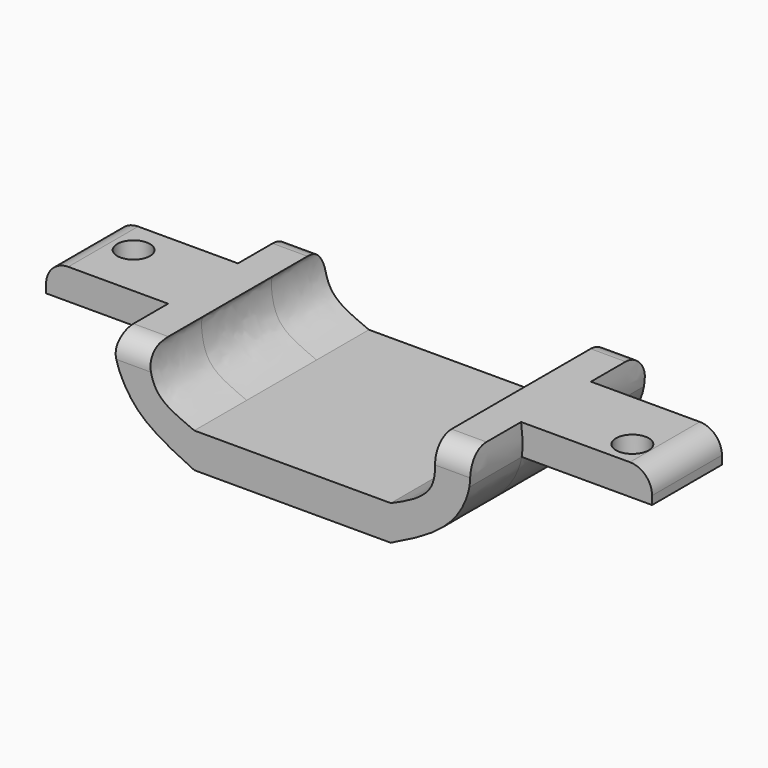
from build123d import *

# Parameters (mm, degrees)
F1_DEPTH = 15
F2_DEPTH = 20
F3_DEPTH = 35
F5_R     = 5.08
F6_R     = 5.08
F7_R     = 5.08
F8_R     = 5.08
F9_R     = 5.08
F10_D    = 7.5


with BuildPart() as f1:
    # F0 (on Front) → F1 (new body)
    with BuildSketch(Plane.XZ):
        with BuildLine():
            add(Edge.make_bspline(
                [(-9.0078394144, -14.6261555421), (-14.006421456, -12.219431046), (-21.4777151753, -8.7987738685), (-25.373944364, -2.1621207849), (-26.2406452466, 0)],
                knots=[0, 0, 0, 0, 0.4219290451, 0.6690640109, 0.6690640109, 0.6690640109, 0.6690640109], degree=3))
            Line((-9.0078394144, -14.6261555421), (35.9921605856, -14.6261555421))
            add(Edge.make_bspline(
                [(35.9921605856, -14.6261555421), (40.7291624411, -12.3453770516), (49.6848707909, -7.8887732182), (53.4571237511, -0.6658874553), (53.9921605856, 2.4431246054)],
                knots=[0, 0, 0, 0, 0.3998491278, 0.7291996551, 0.7291996551, 0.7291996551, 0.7291996551], degree=3))
            add(Edge.make_bspline(
                [(53.9921605856, 2.4431246054), (54.4320814217, 4.9994330631), (54.0818703156, 7.4521168259), (53.8528075786, 9.4431246054)],
                knots=[0.7291996551, 0.7291996551, 0.7291996551, 0.7291996551, 1, 1, 1, 1], degree=3))
            Line((53.8528075786, 9.4431246054), (45.8528075786, 9.4431246054))
            add(Edge.make_bspline(
                [(45.8528075786, 9.4431246054), (45.9380271862, 8.8438899514), (46.0685244466, 6.2436364853), (46.6196397936, -1.8447716738), (39.5795212377, -5.0875957452), (35.9921605856, -6.6261555421)],
                knots=[0, 0, 0, 0, 0.2232213361, 0.5705276676, 1, 1, 1, 1], degree=3))
            Line((35.9921605856, -6.6261555421), (-9.0078394144, -6.6261555421))
            add(Edge.make_bspline(
                [(-19.0078394144, 7), (-19.053505059, 6.7049076197), (-19.5120334536, 6.7583982823), (-19.2237277553, -2.712889397), (-13.0753368013, -4.8592315184), (-9.0078394144, -6.6261555421)],
                knots=[0, 0, 0, 0, 0.1097832683, 0.5084327524, 1, 1, 1, 1], degree=3))
            Line((-19.0078394144, 7), (-27.0078394144, 7))
            add(Edge.make_bspline(
                [(-26.2406452466, 0), (-26.592756236, 0.8783958848), (-27.4419103236, 3.6162903723), (-27.2028414979, 5.3050465987), (-27.0078394144, 7)],
                knots=[0.6690640109, 0.6690640109, 0.6690640109, 0.6690640109, 0.7694665132, 1, 1, 1, 1], degree=3))
        make_face()
    extrude(amount=-F1_DEPTH)

    # F0 (on Front) → F2 (join)
    with BuildSketch(Plane.XZ):
        with BuildLine():
            add(Edge.make_bspline(
                [(-9.0078394144, -14.6261555421), (-14.006421456, -12.219431046), (-21.4777151753, -8.7987738685), (-25.373944364, -2.1621207849), (-26.2406452466, 0)],
                knots=[0, 0, 0, 0, 0.4219290451, 0.6690640109, 0.6690640109, 0.6690640109, 0.6690640109], degree=3))
            Line((-9.0078394144, -14.6261555421), (35.9921605856, -14.6261555421))
            add(Edge.make_bspline(
                [(35.9921605856, -14.6261555421), (40.7291624411, -12.3453770516), (49.6848707909, -7.8887732182), (53.4571237511, -0.6658874553), (53.9921605856, 2.4431246054)],
                knots=[0, 0, 0, 0, 0.3998491278, 0.7291996551, 0.7291996551, 0.7291996551, 0.7291996551], degree=3))
            add(Edge.make_bspline(
                [(53.9921605856, 2.4431246054), (54.4320814217, 4.9994330631), (54.0818703156, 7.4521168259), (53.8528075786, 9.4431246054)],
                knots=[0.7291996551, 0.7291996551, 0.7291996551, 0.7291996551, 1, 1, 1, 1], degree=3))
            Line((53.8528075786, 9.4431246054), (45.8528075786, 9.4431246054))
            add(Edge.make_bspline(
                [(45.8528075786, 9.4431246054), (45.9380271862, 8.8438899514), (46.0685244466, 6.2436364853), (46.6196397936, -1.8447716738), (39.5795212377, -5.0875957452), (35.9921605856, -6.6261555421)],
                knots=[0, 0, 0, 0, 0.2232213361, 0.5705276676, 1, 1, 1, 1], degree=3))
            Line((35.9921605856, -6.6261555421), (-9.0078394144, -6.6261555421))
            add(Edge.make_bspline(
                [(-19.0078394144, 7), (-19.053505059, 6.7049076197), (-19.5120334536, 6.7583982823), (-19.2237277553, -2.712889397), (-13.0753368013, -4.8592315184), (-9.0078394144, -6.6261555421)],
                knots=[0, 0, 0, 0, 0.1097832683, 0.5084327524, 1, 1, 1, 1], degree=3))
            Line((-19.0078394144, 7), (-27.0078394144, 7))
            add(Edge.make_bspline(
                [(-26.2406452466, 0), (-26.592756236, 0.8783958848), (-27.4419103236, 3.6162903723), (-27.2028414979, 5.3050465987), (-27.0078394144, 7)],
                knots=[0.6690640109, 0.6690640109, 0.6690640109, 0.6690640109, 0.7694665132, 1, 1, 1, 1], degree=3))
        make_face()
        with BuildLine():
            Line((-54.9591742456, 0), (-26.2406452466, 0))
            add(Edge.make_bspline(
                [(-26.2406452466, 0), (-26.592756236, 0.8783958848), (-27.4419103236, 3.6162903723), (-27.2028414979, 5.3050465987), (-27.0078394144, 7)],
                knots=[0.6690640109, 0.6690640109, 0.6690640109, 0.6690640109, 0.7694665132, 1, 1, 1, 1], degree=3))
            Line((-27.0078394144, 7), (-54.9591742456, 7))
            Line((-54.9591742456, 7), (-54.9591742456, 0))
        make_face()
        with BuildLine():
            add(Edge.make_bspline(
                [(53.9921605856, 2.4431246054), (54.4320814217, 4.9994330631), (54.0818703156, 7.4521168259), (53.8528075786, 9.4431246054)],
                knots=[0.7291996551, 0.7291996551, 0.7291996551, 0.7291996551, 1, 1, 1, 1], degree=3))
            Line((53.9921605856, 2.4431246054), (83.8528075786, 2.4431246054))
            Line((83.8528075786, 2.4431246054), (83.8528075786, 9.4431246054))
            Line((83.8528075786, 9.4431246054), (53.8528075786, 9.4431246054))
        make_face()
    extrude(amount=F2_DEPTH)

    # F0 (on Front) → F3 (join)
    with BuildSketch(Plane.XZ):
        with BuildLine():
            add(Edge.make_bspline(
                [(-9.0078394144, -14.6261555421), (-14.006421456, -12.219431046), (-21.4777151753, -8.7987738685), (-25.373944364, -2.1621207849), (-26.2406452466, 0)],
                knots=[0, 0, 0, 0, 0.4219290451, 0.6690640109, 0.6690640109, 0.6690640109, 0.6690640109], degree=3))
            Line((-9.0078394144, -14.6261555421), (35.9921605856, -14.6261555421))
            add(Edge.make_bspline(
                [(35.9921605856, -14.6261555421), (40.7291624411, -12.3453770516), (49.6848707909, -7.8887732182), (53.4571237511, -0.6658874553), (53.9921605856, 2.4431246054)],
                knots=[0, 0, 0, 0, 0.3998491278, 0.7291996551, 0.7291996551, 0.7291996551, 0.7291996551], degree=3))
            add(Edge.make_bspline(
                [(53.9921605856, 2.4431246054), (54.4320814217, 4.9994330631), (54.0818703156, 7.4521168259), (53.8528075786, 9.4431246054)],
                knots=[0.7291996551, 0.7291996551, 0.7291996551, 0.7291996551, 1, 1, 1, 1], degree=3))
            Line((53.8528075786, 9.4431246054), (45.8528075786, 9.4431246054))
            add(Edge.make_bspline(
                [(45.8528075786, 9.4431246054), (45.9380271862, 8.8438899514), (46.0685244466, 6.2436364853), (46.6196397936, -1.8447716738), (39.5795212377, -5.0875957452), (35.9921605856, -6.6261555421)],
                knots=[0, 0, 0, 0, 0.2232213361, 0.5705276676, 1, 1, 1, 1], degree=3))
            Line((35.9921605856, -6.6261555421), (-9.0078394144, -6.6261555421))
            add(Edge.make_bspline(
                [(-19.0078394144, 7), (-19.053505059, 6.7049076197), (-19.5120334536, 6.7583982823), (-19.2237277553, -2.712889397), (-13.0753368013, -4.8592315184), (-9.0078394144, -6.6261555421)],
                knots=[0, 0, 0, 0, 0.1097832683, 0.5084327524, 1, 1, 1, 1], degree=3))
            Line((-19.0078394144, 7), (-27.0078394144, 7))
            add(Edge.make_bspline(
                [(-26.2406452466, 0), (-26.592756236, 0.8783958848), (-27.4419103236, 3.6162903723), (-27.2028414979, 5.3050465987), (-27.0078394144, 7)],
                knots=[0.6690640109, 0.6690640109, 0.6690640109, 0.6690640109, 0.7694665132, 1, 1, 1, 1], degree=3))
        make_face()
    extrude(amount=F3_DEPTH)

    # F5
    f5_edges = [f1.edges().sort_by_distance(p)[0] for p in [
        (83.852808, -10, 9.443125),
    ]]
    fillet(f5_edges, radius=F5_R)

    # F6
    f6_edges = [f1.edges().sort_by_distance(p)[0] for p in [
        (-54.959174, -10, 7),
        (49.852808, -35, 9.443125),
    ]]
    fillet(f6_edges, radius=F6_R)

    # F7
    f7_edges = [f1.edges().sort_by_distance(p)[0] for p in [
        (-23.007839, -35, 7),
    ]]
    fillet(f7_edges, radius=F7_R)

    # F8
    f8_edges = [f1.edges().sort_by_distance(p)[0] for p in [
        (-23.007839, 15, 7),
    ]]
    fillet(f8_edges, radius=F8_R)

    # F9
    f9_edges = [f1.edges().sort_by_distance(p)[0] for p in [
        (49.852808, 15, 9.443125),
    ]]
    fillet(f9_edges, radius=F9_R)

    # F10 (through all)
    with Locations(Plane(origin=(0, 0, 0), x_dir=(1, 0, 0), z_dir=(0, 0, -1))):
        with Locations((-44.82346192, 7.6027605683), (74.7854933143, 14.3004301935)):
            Hole(F10_D / 2)


solid = f1.part
